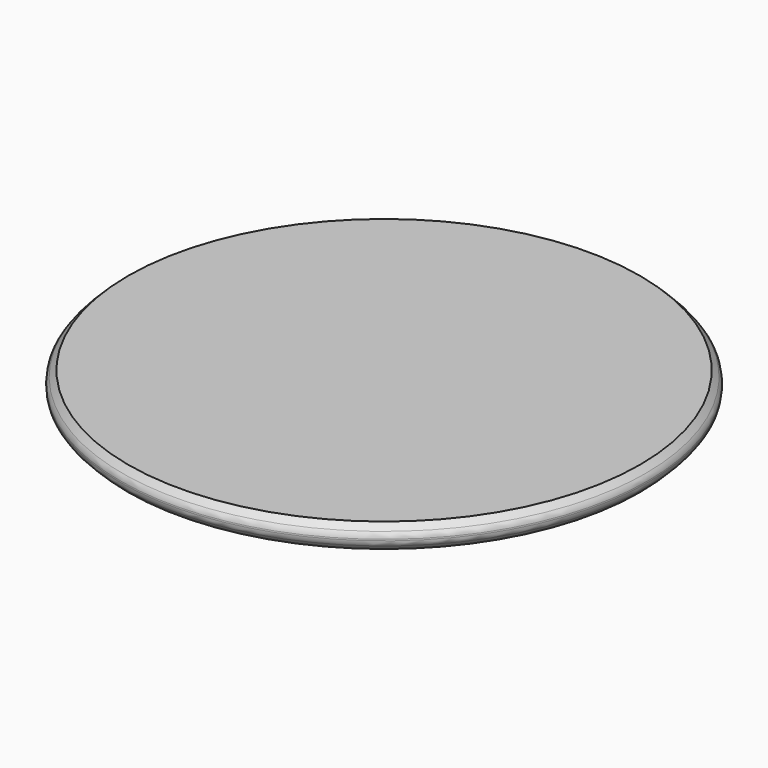
from build123d import *

# Parameters (mm, degrees)
SKETCH_R     = 24
PAD_DEPTH    = 2.2
CHAMFER_SIZE = 0.733333
FILLET_R     = 0.733333


with BuildPart() as part:
    # Sketch → Pad (new body)
    with BuildSketch(Plane.XY):
        Circle(SKETCH_R)
    extrude(amount=PAD_DEPTH)

    # Chamfer
    chamfer_edges = [part.edges().sort_by_distance(p)[0] for p in [
        (24, 0, 1.1),
        (-24, 0, 0),
        (-24, 0, 2.2),
    ]]
    chamfer(chamfer_edges, length=CHAMFER_SIZE)

    # Fillet
    fillet_edges = [part.edges().sort_by_distance(p)[0] for p in [
        (24, 0, 1.1),
        (-24, 0, 0.733333),
        (-24, 0, 1.466667),
    ]]
    fillet(fillet_edges, radius=FILLET_R)


solid = part.part
